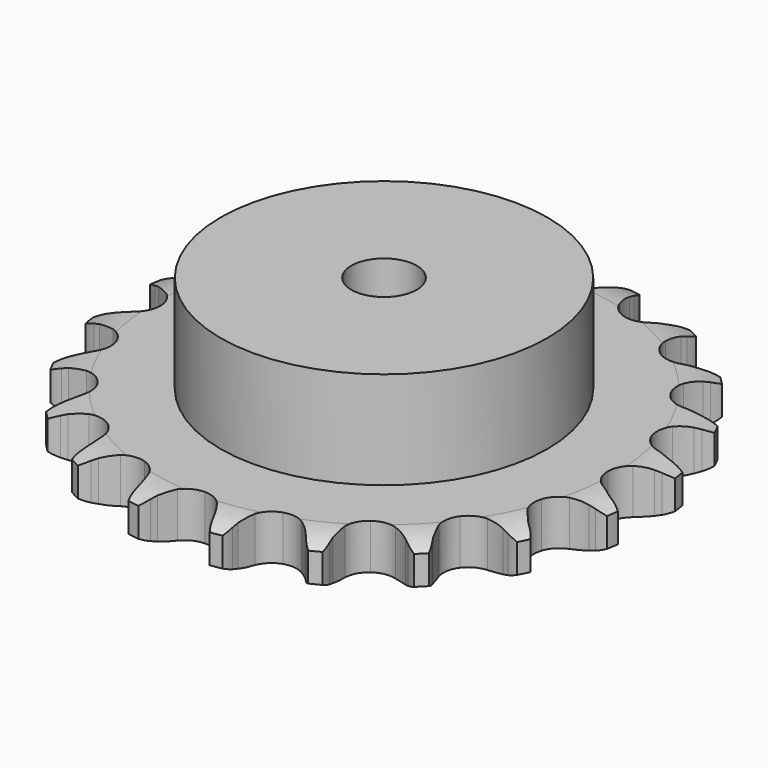
from build123d import *

# Parameters (mm, degrees)
PAD_DEPTH         = 11.1
SKETCH001_R       = 40
PAD001_DEPTH      = 35
SKETCH002_R       = 8
POCKET_DEPTH      = 0.001
POCKET_DEPTH_BACK = 35.001


with BuildPart() as part:
    # Sprocket → Pad (new body)
    with BuildSketch(Plane.XY):
        with BuildLine():
            ThreePointArc((-10.457392, 66.025375), (-8.733699, 64.251511), (-7.499764, 62.107889))
            Line((-7.499764, 62.107889), (-6.918863, 60.725979))
            ThreePointArc((-6.918863, 60.725979), (-5.983558, 58.858219), (-4.809446, 57.130566))
            ThreePointArc((-4.809446, 57.130566), (-2.6755, 55.40253), (0, 54.784842))
            ThreePointArc((0, 54.784842), (2.6755, 55.40253), (4.809446, 57.130566))
            ThreePointArc((4.809446, 57.130566), (5.983558, 58.858219), (6.918863, 60.725979))
            Line((6.918863, 60.725979), (7.499764, 62.107889))
            ThreePointArc((7.499764, 62.107889), (8.733699, 64.251511), (10.457392, 66.025375))
            ThreePointArc((10.457392, 66.025375), (11.548567, 63.80568), (12.059693, 61.385667))
            Line((12.059693, 61.385667), (12.18513, 59.891885))
            ThreePointArc((12.18513, 59.891885), (12.497488, 57.826514), (13.08026, 55.820597))
            ThreePointArc((13.08026, 55.820597), (14.575772, 53.517712), (16.929447, 52.103481))
            ThreePointArc((16.929447, 52.103481), (19.664875, 51.864162), (22.228371, 52.848196))
            Line((22.228371, 52.848196), (25.345589, 55.615792))
            ThreePointArc((25.345589, 55.615792), (25.821841, 56.194828), (26.325093, 56.750558))
            ThreePointArc((26.325093, 56.750558), (28.16105, 58.407957), (30.348534, 59.562352))
            ThreePointArc((30.348534, 59.562352), (30.70038, 57.114104), (30.438664, 54.654588))
            Line((30.438664, 54.654588), (30.096357, 53.195155))
            ThreePointArc((30.096357, 53.195155), (29.755193, 51.134347), (29.68958, 49.04652))
            ThreePointArc((29.68958, 49.04652), (30.400265, 46.394207), (32.201722, 44.321868))
            ThreePointArc((32.201722, 44.321868), (34.729315, 43.248969), (37.471428, 43.392677))
            Line((37.471428, 43.392677), (41.291313, 45.061544))
            ThreePointArc((41.291313, 45.061544), (41.923187, 45.46507), (42.573538, 45.838087))
            ThreePointArc((42.573538, 45.838087), (44.831802, 46.847025), (47.26895, 47.26895))
            ThreePointArc((47.26895, 47.26895), (46.847025, 44.831802), (45.838087, 42.573538))
            Line((45.838087, 42.573538), (45.061544, 41.291313))
            ThreePointArc((45.061544, 41.291313), (44.100252, 39.436793), (43.392677, 37.471428))
            ThreePointArc((43.392677, 37.471428), (43.248969, 34.729315), (44.321868, 32.201722))
            ThreePointArc((44.321868, 32.201722), (46.394207, 30.400265), (49.04652, 29.68958))
            Line((49.04652, 29.68958), (53.195155, 30.096357))
            ThreePointArc((53.195155, 30.096357), (53.920799, 30.284874), (54.654588, 30.438664))
            ThreePointArc((54.654588, 30.438664), (57.114104, 30.70038), (59.562352, 30.348534))
            ThreePointArc((59.562352, 30.348534), (58.407957, 28.16105), (56.750558, 26.325093))
            Line((56.750558, 26.325093), (55.615792, 25.345589))
            ThreePointArc((55.615792, 25.345589), (54.128471, 23.878892), (52.848196, 22.228371))
            ThreePointArc((52.848196, 22.228371), (51.864162, 19.664875), (52.103481, 16.929447))
            ThreePointArc((52.103481, 16.929447), (53.517712, 14.575772), (55.820597, 13.08026))
            Line((55.820597, 13.08026), (59.891885, 12.18513))
            ThreePointArc((59.891885, 12.18513), (60.640268, 12.140183), (61.385667, 12.059693))
            ThreePointArc((61.385667, 12.059693), (63.80568, 11.548567), (66.025375, 10.457392))
            ThreePointArc((66.025375, 10.457392), (64.251511, 8.733699), (62.107889, 7.499764))
            Line((62.107889, 7.499764), (60.725979, 6.918863))
            ThreePointArc((60.725979, 6.918863), (58.858219, 5.983558), (57.130566, 4.809446))
            ThreePointArc((57.130566, 4.809446), (55.40253, 2.6755), (54.784842, 0))
            ThreePointArc((54.784842, 0), (55.40253, -2.6755), (57.130566, -4.809446))
            Line((57.130566, -4.809446), (60.725979, -6.918863))
            ThreePointArc((60.725979, -6.918863), (61.423845, -7.192873), (62.107889, -7.499764))
            ThreePointArc((62.107889, -7.499764), (64.251511, -8.733699), (66.025375, -10.457392))
            ThreePointArc((66.025375, -10.457392), (63.80568, -11.548567), (61.385667, -12.059693))
            Line((61.385667, -12.059693), (59.891885, -12.18513))
            ThreePointArc((59.891885, -12.18513), (57.826514, -12.497488), (55.820597, -13.08026))
            ThreePointArc((55.820597, -13.08026), (53.517712, -14.575772), (52.103481, -16.929447))
            ThreePointArc((52.103481, -16.929447), (51.864162, -19.664875), (52.848196, -22.228371))
            Line((52.848196, -22.228371), (55.615792, -25.345589))
            ThreePointArc((55.615792, -25.345589), (56.194828, -25.821841), (56.750558, -26.325093))
            ThreePointArc((56.750558, -26.325093), (58.407957, -28.16105), (59.562352, -30.348534))
            ThreePointArc((59.562352, -30.348534), (57.114104, -30.70038), (54.654588, -30.438664))
            Line((54.654588, -30.438664), (53.195155, -30.096357))
            ThreePointArc((53.195155, -30.096357), (51.134347, -29.755193), (49.04652, -29.68958))
            ThreePointArc((49.04652, -29.68958), (46.394207, -30.400265), (44.321868, -32.201722))
            ThreePointArc((44.321868, -32.201722), (43.248969, -34.729315), (43.392677, -37.471428))
            Line((43.392677, -37.471428), (45.061544, -41.291313))
            ThreePointArc((45.061544, -41.291313), (45.46507, -41.923187), (45.838087, -42.573538))
            ThreePointArc((45.838087, -42.573538), (46.847025, -44.831802), (47.26895, -47.26895))
            ThreePointArc((47.26895, -47.26895), (44.831802, -46.847025), (42.573538, -45.838087))
            Line((42.573538, -45.838087), (41.291313, -45.061544))
            ThreePointArc((41.291313, -45.061544), (39.436793, -44.100252), (37.471428, -43.392677))
            ThreePointArc((37.471428, -43.392677), (34.729315, -43.248969), (32.201722, -44.321868))
            ThreePointArc((32.201722, -44.321868), (30.400265, -46.394207), (29.68958, -49.04652))
            Line((29.68958, -49.04652), (30.096357, -53.195155))
            ThreePointArc((30.096357, -53.195155), (30.284874, -53.920799), (30.438664, -54.654588))
            ThreePointArc((30.438664, -54.654588), (30.70038, -57.114104), (30.348534, -59.562352))
            ThreePointArc((30.348534, -59.562352), (28.16105, -58.407957), (26.325093, -56.750558))
            Line((26.325093, -56.750558), (25.345589, -55.615792))
            ThreePointArc((25.345589, -55.615792), (23.878892, -54.128471), (22.228371, -52.848196))
            ThreePointArc((22.228371, -52.848196), (19.664875, -51.864162), (16.929447, -52.103481))
            ThreePointArc((16.929447, -52.103481), (14.575772, -53.517712), (13.08026, -55.820597))
            Line((13.08026, -55.820597), (12.18513, -59.891885))
            ThreePointArc((12.18513, -59.891885), (12.140183, -60.640268), (12.059693, -61.385667))
            ThreePointArc((12.059693, -61.385667), (11.548567, -63.80568), (10.457392, -66.025375))
            ThreePointArc((10.457392, -66.025375), (8.733699, -64.251511), (7.499764, -62.107889))
            Line((7.499764, -62.107889), (6.918863, -60.725979))
            ThreePointArc((6.918863, -60.725979), (5.983558, -58.858219), (4.809446, -57.130566))
            ThreePointArc((4.809446, -57.130566), (2.6755, -55.40253), (0, -54.784842))
            ThreePointArc((0, -54.784842), (-2.6755, -55.40253), (-4.809446, -57.130566))
            Line((-4.809446, -57.130566), (-6.918863, -60.725979))
            ThreePointArc((-6.918863, -60.725979), (-7.192873, -61.423845), (-7.499764, -62.107889))
            ThreePointArc((-7.499764, -62.107889), (-8.733699, -64.251511), (-10.457392, -66.025375))
            ThreePointArc((-10.457392, -66.025375), (-11.548567, -63.80568), (-12.059693, -61.385667))
            Line((-12.059693, -61.385667), (-12.18513, -59.891885))
            ThreePointArc((-12.18513, -59.891885), (-12.497488, -57.826514), (-13.08026, -55.820597))
            ThreePointArc((-13.08026, -55.820597), (-14.575772, -53.517712), (-16.929447, -52.103481))
            ThreePointArc((-16.929447, -52.103481), (-19.664875, -51.864162), (-22.228371, -52.848196))
            Line((-22.228371, -52.848196), (-25.345589, -55.615792))
            ThreePointArc((-25.345589, -55.615792), (-25.821841, -56.194828), (-26.325093, -56.750558))
            ThreePointArc((-26.325093, -56.750558), (-28.16105, -58.407957), (-30.348534, -59.562352))
            ThreePointArc((-30.348534, -59.562352), (-30.70038, -57.114104), (-30.438664, -54.654588))
            Line((-30.438664, -54.654588), (-30.096357, -53.195155))
            ThreePointArc((-30.096357, -53.195155), (-29.755193, -51.134347), (-29.68958, -49.04652))
            ThreePointArc((-29.68958, -49.04652), (-30.400265, -46.394207), (-32.201722, -44.321868))
            ThreePointArc((-32.201722, -44.321868), (-34.729315, -43.248969), (-37.471428, -43.392677))
            Line((-37.471428, -43.392677), (-41.291313, -45.061544))
            ThreePointArc((-41.291313, -45.061544), (-41.923187, -45.46507), (-42.573538, -45.838087))
            ThreePointArc((-42.573538, -45.838087), (-44.831802, -46.847025), (-47.26895, -47.26895))
            ThreePointArc((-47.26895, -47.26895), (-46.847025, -44.831802), (-45.838087, -42.573538))
            Line((-45.838087, -42.573538), (-45.061544, -41.291313))
            ThreePointArc((-45.061544, -41.291313), (-44.100252, -39.436793), (-43.392677, -37.471428))
            ThreePointArc((-43.392677, -37.471428), (-43.248969, -34.729315), (-44.321868, -32.201722))
            ThreePointArc((-44.321868, -32.201722), (-46.394207, -30.400265), (-49.04652, -29.68958))
            Line((-49.04652, -29.68958), (-53.195155, -30.096357))
            ThreePointArc((-53.195155, -30.096357), (-53.920799, -30.284874), (-54.654588, -30.438664))
            ThreePointArc((-54.654588, -30.438664), (-57.114104, -30.70038), (-59.562352, -30.348534))
            ThreePointArc((-59.562352, -30.348534), (-58.407957, -28.16105), (-56.750558, -26.325093))
            Line((-56.750558, -26.325093), (-55.615792, -25.345589))
            ThreePointArc((-55.615792, -25.345589), (-54.128471, -23.878892), (-52.848196, -22.228371))
            ThreePointArc((-52.848196, -22.228371), (-51.864162, -19.664875), (-52.103481, -16.929447))
            ThreePointArc((-52.103481, -16.929447), (-53.517712, -14.575772), (-55.820597, -13.08026))
            Line((-55.820597, -13.08026), (-59.891885, -12.18513))
            ThreePointArc((-59.891885, -12.18513), (-60.640268, -12.140183), (-61.385667, -12.059693))
            ThreePointArc((-61.385667, -12.059693), (-63.80568, -11.548567), (-66.025375, -10.457392))
            ThreePointArc((-66.025375, -10.457392), (-64.251511, -8.733699), (-62.107889, -7.499764))
            Line((-62.107889, -7.499764), (-60.725979, -6.918863))
            ThreePointArc((-60.725979, -6.918863), (-58.858219, -5.983558), (-57.130566, -4.809446))
            ThreePointArc((-57.130566, -4.809446), (-55.40253, -2.6755), (-54.784842, 0))
            ThreePointArc((-54.784842, 0), (-55.40253, 2.6755), (-57.130566, 4.809446))
            Line((-57.130566, 4.809446), (-60.725979, 6.918863))
            ThreePointArc((-60.725979, 6.918863), (-61.423845, 7.192873), (-62.107889, 7.499764))
            ThreePointArc((-62.107889, 7.499764), (-64.251511, 8.733699), (-66.025375, 10.457392))
            ThreePointArc((-66.025375, 10.457392), (-63.80568, 11.548567), (-61.385667, 12.059693))
            Line((-61.385667, 12.059693), (-59.891885, 12.18513))
            ThreePointArc((-59.891885, 12.18513), (-57.826514, 12.497488), (-55.820597, 13.08026))
            ThreePointArc((-55.820597, 13.08026), (-53.517712, 14.575772), (-52.103481, 16.929447))
            ThreePointArc((-52.103481, 16.929447), (-51.864162, 19.664875), (-52.848196, 22.228371))
            Line((-52.848196, 22.228371), (-55.615792, 25.345589))
            ThreePointArc((-55.615792, 25.345589), (-56.194828, 25.821841), (-56.750558, 26.325093))
            ThreePointArc((-56.750558, 26.325093), (-58.407957, 28.16105), (-59.562352, 30.348534))
            ThreePointArc((-59.562352, 30.348534), (-57.114104, 30.70038), (-54.654588, 30.438664))
            Line((-54.654588, 30.438664), (-53.195155, 30.096357))
            ThreePointArc((-53.195155, 30.096357), (-51.134347, 29.755193), (-49.04652, 29.68958))
            ThreePointArc((-49.04652, 29.68958), (-46.394207, 30.400265), (-44.321868, 32.201722))
            ThreePointArc((-44.321868, 32.201722), (-43.248969, 34.729315), (-43.392677, 37.471428))
            Line((-43.392677, 37.471428), (-45.061544, 41.291313))
            ThreePointArc((-45.061544, 41.291313), (-45.46507, 41.923187), (-45.838087, 42.573538))
            ThreePointArc((-45.838087, 42.573538), (-46.847025, 44.831802), (-47.26895, 47.26895))
            ThreePointArc((-47.26895, 47.26895), (-44.831802, 46.847025), (-42.573538, 45.838087))
            Line((-42.573538, 45.838087), (-41.291313, 45.061544))
            ThreePointArc((-41.291313, 45.061544), (-39.436793, 44.100252), (-37.471428, 43.392677))
            ThreePointArc((-37.471428, 43.392677), (-34.729315, 43.248969), (-32.201722, 44.321868))
            ThreePointArc((-32.201722, 44.321868), (-30.400265, 46.394207), (-29.68958, 49.04652))
            Line((-29.68958, 49.04652), (-30.096357, 53.195155))
            ThreePointArc((-30.096357, 53.195155), (-30.284874, 53.920799), (-30.438664, 54.654588))
            ThreePointArc((-30.438664, 54.654588), (-30.70038, 57.114104), (-30.348534, 59.562352))
            ThreePointArc((-30.348534, 59.562352), (-28.16105, 58.407957), (-26.325093, 56.750558))
            Line((-26.325093, 56.750558), (-25.345589, 55.615792))
            ThreePointArc((-25.345589, 55.615792), (-23.878892, 54.128471), (-22.228371, 52.848196))
            ThreePointArc((-22.228371, 52.848196), (-19.664875, 51.864162), (-16.929447, 52.103481))
            ThreePointArc((-16.929447, 52.103481), (-14.575772, 53.517712), (-13.08026, 55.820597))
            Line((-13.08026, 55.820597), (-12.18513, 59.891885))
            ThreePointArc((-12.18513, 59.891885), (-12.140183, 60.640268), (-12.059693, 61.385667))
            ThreePointArc((-12.059693, 61.385667), (-11.548567, 63.80568), (-10.457392, 66.025375))
        make_face()
    extrude(amount=PAD_DEPTH)

    # Sketch → Groove (revolve, cut)
    with BuildSketch(Plane.XZ):
        with BuildLine():
            Line((56.364719, 0), (64.85, 0))
            Line((73.335281, 0), (64.85, 0))
            Line((73.335281, 11.1), (73.335281, 0))
            Line((64.85, 11.1), (73.335281, 11.1))
            Line((56.364719, 11.1), (64.85, 11.1))
            ThreePointArc((64.85, 9.1), (60.723618, 10.593242), (56.364719, 11.1))
            Line((64.85, 2), (64.85, 9.1))
            ThreePointArc((56.364719, 0), (60.723618, 0.506758), (64.85, 2))
        make_face()
    revolve(axis=Axis((0, 0, 0), (0, 0, 1)), mode=Mode.SUBTRACT)

    # Sketch001 → Pad001 (join)
    with BuildSketch(Plane.XY):
        Circle(SKETCH001_R)
    extrude(amount=PAD001_DEPTH)

    # Sketch002 → Pocket (cut, two sides)
    with BuildSketch(Plane.XY) as pocket_sk:
        Circle(SKETCH002_R)
    extrude(amount=-POCKET_DEPTH, mode=Mode.SUBTRACT)
    extrude(pocket_sk.sketch, amount=POCKET_DEPTH_BACK, mode=Mode.SUBTRACT)


solid = part.part
